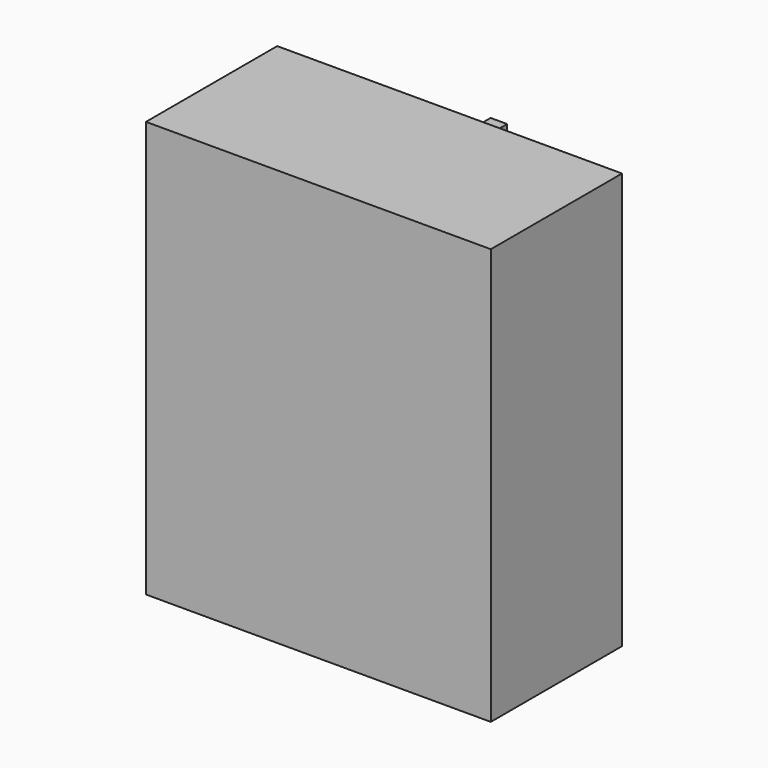
from build123d import *

# Parameters (mm, degrees)
F0_W     = 76.8568962812
F0_H     = 111.5410327911
F1_DEPTH = 25.4
F2_W     = 38.4284481406
F2_H     = 31.9251716137
F2_H_2   = 42.9610349238
F2_H_3   = 36.6548262537
F3_DEPTH = 9.525
F4_W     = 106.8113818765
F4_H     = 128.8831084967
F5_DEPTH = 50.8
F6_DEPTH = 31.75
F7_W     = 5.1237931475
F7_H     = 31.333964318
F7_H_2   = 4.72965464
F7_H_3   = 40.0050021708
F7_W_2   = 32.7134476975
F7_H_4   = 4.3355170637
F7_W_3   = 38.0343087018
F7_W_4   = 32.5163798407
F8_DEPTH = 50.8


with BuildPart() as f1:
    # F0 (on Front) → F1 (new body)
    with BuildSketch(Plane.XZ):
        Rectangle(F0_W, F0_H)
    extrude(amount=F1_DEPTH)

    # F2 (on face) → F3 (cut)
    with BuildSketch(Plane.XZ.offset(25.4)):
        with Locations((-19.2142240703, 39.8079305887)):
            Rectangle(F2_W, F2_H)
        with Locations((19.2142240703, 39.8079305887)):
            Rectangle(F2_W, F2_H)
        with Locations((19.2142240703, 2.36482732)):
            Rectangle(F2_W, F2_H_2)
        with Locations((-19.2142240703, 2.36482732)):
            Rectangle(F2_W, F2_H_2)
        with Locations((-19.2142240703, -37.4431032687)):
            Rectangle(F2_W, F2_H_3)
        with Locations((19.2142240703, -37.4431032687)):
            Rectangle(F2_W, F2_H_3)
    extrude(amount=-F3_DEPTH, mode=Mode.SUBTRACT)

    # F4 (on face) → F5 (join)
    with BuildSketch(Plane.XZ.offset(15.875)):
        Rectangle(F4_W, F4_H)
    extrude(amount=F5_DEPTH)

    # F6 (cut): a face of the model
    f6_faces = [f1.faces().sort_by_distance(p)[0] for p in [
        (0, 0, 0),
    ]]
    extrude(f6_faces, amount=-F6_DEPTH, mode=Mode.SUBTRACT)

    # F7 (on Front) → F8 (join)
    with BuildSketch(Plane.XZ):
        with Locations((2.5618965738, 40.1035342366)):
            Rectangle(F7_W, F7_H)
        with Locations((2.5618965738, 22.0717247576)):
            Rectangle(F7_W, F7_H_2)
        Polygon((0, 19.7068974376), (0, 24.4365520775), (-37.4431051314, 24.4365520775), (-38.0343087018, 24.4365520775), (-38.0343087018, 19.7068974376), align=None)
        with Locations((2.5618965738, -0.2956036478)):
            Rectangle(F7_W, F7_H_3)
        with Locations((21.4805169962, 22.0717247576)):
            Rectangle(F7_W_2, F7_H_2)
        with Locations((2.5618965738, -22.4658632651)):
            Rectangle(F7_W, F7_H_4)
        with Locations((-19.0171543509, -22.4658632651)):
            Rectangle(F7_W_3, F7_H_4)
        Polygon((5.1237931475, -24.633621797), (0, -24.633621797), (0, -54.5881018043), (0, -55.9675879776), (5.1237931475, -55.9675879776), align=None)
        with Locations((21.3819830678, -22.4658632651)):
            Rectangle(F7_W_4, F7_H_4)
    extrude(amount=F8_DEPTH)


solid = f1.part
